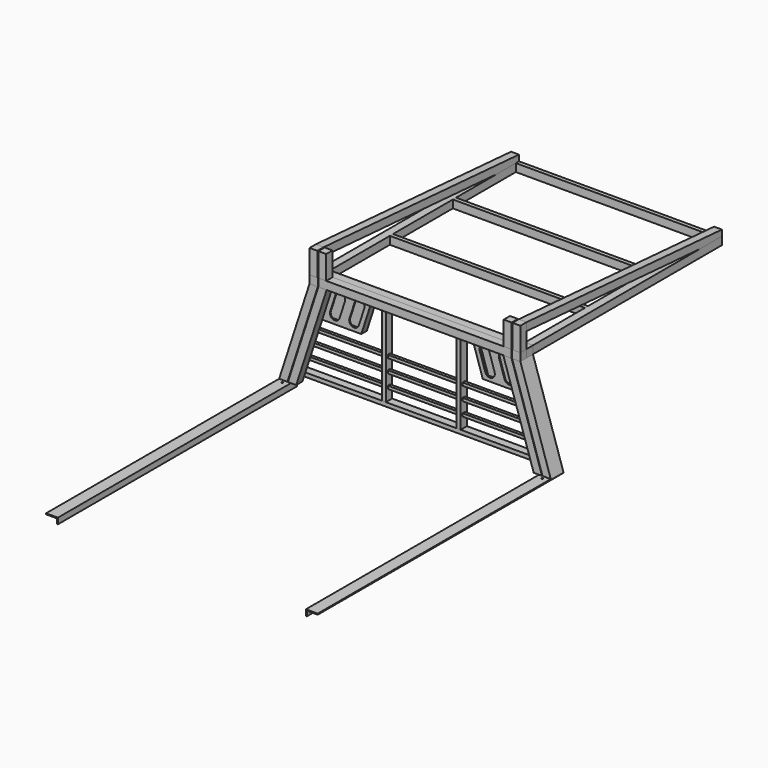
from build123d import *

# Parameters (mm, degrees)
F1_DEPTH       = 76.2
F1_DEPTH_BACK  = 25.4
F2_W           = 1360.1484171438
F2_H           = 50.8
F3_DEPTH       = 25.4
F3_DEPTH_BACK  = 25.4
F5_DEPTH       = 6.35
F6_START       = 31.75
F6_DEPTH       = 6.35
F8_DEPTH       = 31.75
F10_DEPTH      = 31.75
F12_DEPTH      = 6.35
F14_DEPTH      = 9.525
F14_DEPTH_BACK = 9.525
F15_T          = -3.175
F17_DEPTH      = 1981.2
F18_W          = 50.8
F18_H          = 31.75
F19_DEPTH      = 1682.751
F22_R          = 5.0419
F23_DEPTH      = 6.35
F24_W          = 53.4142809913
F24_H          = 50.8
F25_DEPTH      = 50.8
F26_W          = 50.8
F26_H          = 152.4
F27_DEPTH      = 50.8
F28_W          = 1524
F28_H          = 50.8
F29_DEPTH      = 50.8
F31_DEPTH      = 50.8
F33_W          = 25.4
F33_H          = 50.8
F34_DEPTH      = 1258.5484171438
F35_W          = 25.4
F35_H          = 50.8
F36_DEPTH      = 546.7708878474
F38_DEPTH      = 546.7708878474
F40_DEPTH      = 50.8
F41_W          = 1246.6430700373
F41_H          = 50.8
F42_DEPTH      = 50.8
F43_W          = 50.8
F43_H          = 152.4
F44_DEPTH      = 50.8


with BuildPart() as f1:
    # F0 (on Front) → F1 (new body, two sides)
    with BuildSketch(Plane.XZ) as f1_sk:
        Polygon((-680.0742085719, 603.9208878474), (-876.3, 0), (-822.8857190087, 0), (-626.6599275806, 603.9208878474), align=None)
    extrude(amount=F1_DEPTH)
    extrude(f1_sk.sketch, amount=-F1_DEPTH_BACK)

    # F15
    f15_openings = [f1.faces().sort_by_distance(p)[0] for p in [
        (-849.59286, -25.4, 0),
    ]]
    offset(amount=F15_T, openings=f15_openings)


with BuildPart() as f1b:
    # F0 (on Front) → F1, piece 2 (new body, two sides)
    with BuildSketch(Plane.XZ) as f1_2_sk:
        Polygon((680.0742085719, 603.9208878474), (626.6599275806, 603.9208878474), (822.8857190087, 0), (876.3, 0), align=None)
    extrude(amount=F1_DEPTH)
    extrude(f1_2_sk.sketch, amount=-F1_DEPTH_BACK)


with BuildPart() as f3:
    # F2 (on Front) → F3 (new body, two sides)
    with BuildSketch(Plane.XZ) as f3_sk:
        with Locations((0, 629.3208878474)):
            Rectangle(F2_W, F2_H)
    extrude(amount=F3_DEPTH)
    extrude(f3_sk.sketch, amount=-F3_DEPTH_BACK)


with BuildPart() as f3b:
    # F2 (on Front) → F3, piece 2 (new body, two sides)
    with BuildSketch(Plane.XZ) as f3_2_sk:
        Polygon((-804.316558369, 57.15), (-812.5695186533, 31.75), (812.5695186533, 31.75), (804.316558369, 57.15), align=None)
    extrude(amount=F3_DEPTH)
    extrude(f3_2_sk.sketch, amount=-F3_DEPTH_BACK)


with BuildPart() as f5:
    # F4 (on face) → F5 (new body)
    with BuildSketch(Plane(origin=(0, 25.4, 0), x_dir=(-1, 0, 0), z_dir=(0, 1, 0))):
        Polygon((-321.8599275806, 603.9208878474), (-626.6599275806, 603.9208878474), (-696.8100899973, 388.0208878474), (-392.0100899973, 388.0208878474), align=None)
    extrude(amount=-F5_DEPTH)


with BuildPart() as f5b:
    # F4 (on face) → F5, piece 2 (new body)
    with BuildSketch(Plane(origin=(0, 25.4, 0), x_dir=(-1, 0, 0), z_dir=(0, 1, 0))):
        Polygon((626.6599275806, 603.9208878474), (321.8599275806, 603.9208878474), (392.0100899973, 388.0208878474), (696.8100899973, 388.0208878474), align=None)
    extrude(amount=-F5_DEPTH)


with BuildPart() as f6:
    # F5_face (on face) → F6 (new body)
    with BuildSketch(Plane(origin=(-509.3350087889, 19.05, 495.9708878474), x_dir=(-1, 0, 0), z_dir=(0, -1, 0)).offset(F6_START)):
        Polygon((-187.4750812083, -107.95), (117.3249187917, -107.95), (187.4750812083, 107.95), (-117.3249187917, 107.95), align=None)
    extrude(amount=F6_DEPTH)


with BuildPart() as f6b:
    # F5_face (on face) → F6, piece 2 (new body)
    with BuildSketch(Plane(origin=(-509.3350087889, 19.05, 495.9708878474), x_dir=(-1, 0, 0), z_dir=(0, -1, 0)).offset(F6_START)):
        Polygon((-901.3450987862, 107.95), (-1206.1450987862, 107.95), (-1135.9949363696, -107.95), (-831.1949363696, -107.95), align=None)
    extrude(amount=F6_DEPTH)


with BuildPart() as f8:
    # F7 (on face) → F8 (new body, through all)
    with BuildSketch(Plane.XZ.offset(-19.05)):
        Polygon((-392.0100899973, 388.0208878474), (-321.8599275806, 603.9208878474), (-328.5367127045, 603.9208878474), (-398.6868751212, 388.0208878474), align=None)
    extrude(amount=F8_DEPTH)


with BuildPart() as f8b:
    # F7 (on face) → F8, piece 2 (new body, through all)
    with BuildSketch(Plane.XZ.offset(-19.05)):
        Polygon((328.5367127045, 603.9208878474), (321.8599275806, 603.9208878474), (392.0100899973, 388.0208878474), (398.6868751212, 388.0208878474), align=None)
    extrude(amount=F8_DEPTH)


with BuildPart() as f10:
    # F9 (on face) → F10 (new body, through all)
    with BuildSketch(Plane.XZ.offset(-19.05)):
        Polygon((-694.7468499262, 394.3708878474), (-696.8100899973, 388.0208878474), (-398.6868751212, 388.0208878474), (-396.6236350501, 394.3708878474), align=None)
    extrude(amount=F10_DEPTH)


with BuildPart() as f10b:
    # F9 (on face) → F10, piece 2 (new body, through all)
    with BuildSketch(Plane.XZ.offset(-19.05)):
        Polygon((396.6236350501, 394.3708878474), (398.6868751212, 388.0208878474), (696.8100899973, 388.0208878474), (694.7468499262, 394.3708878474), align=None)
    extrude(amount=F10_DEPTH)


with BuildPart() as f12_tool:
    # F11 (on face) → F12 (new body, through all)
    with BuildSketch(Plane.XZ.offset(19.05)):
        with BuildLine():
            Line((-432.9707319528, 560.1350573251), (-468.2913744098, 451.4292975126))
            ThreePointArc((-468.2913744098, 451.4292975126), (-447.9066195889, 411.4219635488), (-407.8992856251, 431.8067183698))
            Line((-407.8992856251, 431.8067183698), (-372.578643168, 540.5124781823))
            ThreePointArc((-372.578643168, 540.5124781823), (-392.963397989, 580.5198121461), (-432.9707319528, 560.1350573251))
        make_face()
        with BuildLine():
            Line((-557.3564509615, 560.1350573251), (-592.6770934185, 451.4292975126))
            ThreePointArc((-592.6770934185, 451.4292975126), (-572.2923385976, 411.4219635488), (-532.2850046338, 431.8067183698))
            Line((-532.2850046338, 431.8067183698), (-496.9643621767, 540.5124781823))
            ThreePointArc((-496.9643621767, 540.5124781823), (-517.3491169977, 580.5198121461), (-557.3564509615, 560.1350573251))
        make_face()
        with BuildLine():
            Line((468.2913744098, 451.4292975126), (432.9707319528, 560.1350573251))
            ThreePointArc((432.9707319528, 560.1350573251), (392.963397989, 580.5198121461), (372.578643168, 540.5124781823))
            Line((372.578643168, 540.5124781823), (407.8992856251, 431.8067183698))
            ThreePointArc((407.8992856251, 431.8067183698), (447.9066195889, 411.4219635488), (468.2913744098, 451.4292975126))
        make_face()
        with BuildLine():
            Line((592.6770934185, 451.4292975126), (557.3564509615, 560.1350573251))
            ThreePointArc((557.3564509615, 560.1350573251), (517.3491169977, 580.5198121461), (496.9643621767, 540.5124781823))
            Line((496.9643621767, 540.5124781823), (532.2850046338, 431.8067183698))
            ThreePointArc((532.2850046338, 431.8067183698), (572.2923385976, 411.4219635488), (592.6770934185, 451.4292975126))
        make_face()
    extrude(amount=-F12_DEPTH)


with BuildPart() as f6_1:
    add(f6.part)

    # F12: cut by f12_tool
    add(f12_tool.part, mode=Mode.SUBTRACT)


with BuildPart() as f6b_1:
    add(f6b.part)

    # F12: cut by f12_tool
    add(f12_tool.part, mode=Mode.SUBTRACT)


with BuildPart() as f14:
    # F13 (on Front) → F14 (new body, two sides)
    with BuildSketch(Plane.XZ) as f14_sk:
        Polygon((-775.8925112228, 144.6302219619), (-782.082231436, 125.5802219619), (782.082231436, 125.5802219619), (775.8925112228, 144.6302219619), align=None)
    extrude(amount=F14_DEPTH)
    extrude(f14_sk.sketch, amount=-F14_DEPTH_BACK)


with BuildPart() as f14b:
    # F13 (on Front) → F14, piece 2 (new body, two sides)
    with BuildSketch(Plane.XZ) as f14_2_sk:
        Polygon((-747.4684640765, 232.1104439237), (-753.6581842898, 213.0604439237), (753.6581842898, 213.0604439237), (747.4684640765, 232.1104439237), align=None)
    extrude(amount=F14_DEPTH)
    extrude(f14_2_sk.sketch, amount=-F14_DEPTH_BACK)


with BuildPart() as f14c:
    # F13 (on Front) → F14, piece 3 (new body, two sides)
    with BuildSketch(Plane.XZ) as f14_3_sk:
        Polygon((-719.0444169303, 319.5906658856), (-725.2341371435, 300.5406658856), (725.2341371435, 300.5406658856), (719.0444169303, 319.5906658856), align=None)
    extrude(amount=F14_DEPTH)
    extrude(f14_3_sk.sketch, amount=-F14_DEPTH_BACK)


with BuildPart() as f17:
    # F16 (on face) → F17 (new body)
    with BuildSketch(Plane(origin=(0, 25.4, 0), x_dir=(-1, 0, 0), z_dir=(0, 1, 0))):
        Polygon((806.45, -6.35), (876.3, -6.35), (876.3, 0), (800.1, 0), (800.1, -38.1), (806.45, -38.1), align=None)
    extrude(amount=-F17_DEPTH)


with BuildPart() as f17b:
    # F16 (on face) → F17, piece 2 (new body)
    with BuildSketch(Plane(origin=(0, 25.4, 0), x_dir=(-1, 0, 0), z_dir=(0, 1, 0))):
        Polygon((-800.1, 0), (-876.3, 0), (-876.3, -6.35), (-806.45, -6.35), (-806.45, -38.1), (-800.1, -38.1), align=None)
    extrude(amount=-F17_DEPTH)


with BuildPart() as f19_tool:
    # F18 (on face) → F19 (new body, through all)
    with BuildSketch(Plane.YZ.offset(806.45)):
        with Locations((0, -22.225)):
            Rectangle(F18_W, F18_H)
    extrude(amount=-F19_DEPTH)


with BuildPart() as f17_1:
    add(f17.part)

    # F19: cut by f19_tool
    add(f19_tool.part, mode=Mode.SUBTRACT)


with BuildPart() as f17b_1:
    add(f17b.part)

    # F19: cut by f19_tool
    add(f19_tool.part, mode=Mode.SUBTRACT)


with BuildPart() as f23_tool:
    # F22 (on face) → F23 (new body, through all)
    with BuildSketch(Plane(origin=(0, 0, -6.35), x_dir=(1, 0, 0), z_dir=(0, 0, -1))):
        with Locations((-838.2, 98.425)):
            Circle(F22_R)
        with Locations((838.2, 98.425)):
            Circle(F22_R)
    extrude(amount=-F23_DEPTH)


with BuildPart() as f17_2:
    add(f17_1.part)

    # F23: cut by f23_tool
    add(f23_tool.part, mode=Mode.SUBTRACT)


with BuildPart() as f17b_2:
    add(f17b_1.part)

    # F23: cut by f23_tool
    add(f23_tool.part, mode=Mode.SUBTRACT)


with BuildPart() as f25:
    # F24 (on face) → F25 (new body)
    with BuildSketch(Plane.XZ.offset(25.4)):
        with Locations((-653.3670680763, 629.3208878474)):
            Rectangle(F24_W, F24_H)
    extrude(amount=F25_DEPTH)


with BuildPart() as f25b:
    # F24 (on face) → F25, piece 2 (new body)
    with BuildSketch(Plane.XZ.offset(25.4)):
        with Locations((653.3670680763, 629.3208878474)):
            Rectangle(F24_W, F24_H)
    extrude(amount=F25_DEPTH)


with BuildPart() as f27:
    # F26 (on face) → F27 (new body)
    with BuildSketch(Plane.XZ.offset(76.2)):
        with Locations((-654.6742085719, 730.9208878474)):
            Rectangle(F26_W, F26_H)
    extrude(amount=-F27_DEPTH)


with BuildPart() as f27b:
    # F26 (on face) → F27, piece 2 (new body)
    with BuildSketch(Plane.XZ.offset(76.2)):
        with Locations((654.6742085719, 730.9208878474)):
            Rectangle(F26_W, F26_H)
    extrude(amount=-F27_DEPTH)


with BuildPart() as f29:
    # F28 (on face) → F29 (new body)
    with BuildSketch(Plane.YZ.offset(680.0742085719)):
        with Locations((787.4, 629.3208878474)):
            Rectangle(F28_W, F28_H)
    extrude(amount=-F29_DEPTH)


with BuildPart() as f31:
    # F30 (on face) → F31 (new body)
    with BuildSketch(Plane.YZ.offset(680.0742085719)):
        Polygon((-25.4, 756.1872576742), (1372.5810953912, 654.7208878474), (1549.4, 654.7208878474), (1549.4, 692.8208878474), (-25.4, 807.1208878474), align=None)
    extrude(amount=-F31_DEPTH)


with BuildPart() as f32_1:
    # F32: instance of F31
    add(f31.part.mirror(Plane.YZ))


with BuildPart() as f32_2:
    # F32: instance of F29
    add(f29.part.mirror(Plane.YZ))


with BuildPart() as f34:
    # F33 (on face) → F34 (new body, through all)
    with BuildSketch(Plane(origin=(629.2742085719, 0, 0), x_dir=(0, -1, 0), z_dir=(-1, 0, 0))):
        with Locations((-520.7, 629.3208878474)):
            Rectangle(F33_W, F33_H)
    extrude(amount=F34_DEPTH)


with BuildPart() as f34b:
    # F33 (on face) → F34, piece 2 (new body, through all)
    with BuildSketch(Plane(origin=(629.2742085719, 0, 0), x_dir=(0, -1, 0), z_dir=(-1, 0, 0))):
        with Locations((-1028.7, 629.3208878474)):
            Rectangle(F33_W, F33_H)
    extrude(amount=F34_DEPTH)


with BuildPart() as f34c:
    # F33 (on face) → F34, piece 3 (new body, through all)
    with BuildSketch(Plane(origin=(629.2742085719, 0, 0), x_dir=(0, -1, 0), z_dir=(-1, 0, 0))):
        with Locations((-1536.7, 629.3208878474)):
            Rectangle(F33_W, F33_H)
    extrude(amount=F34_DEPTH)


with BuildPart() as f36:
    # F35 (on face) → F36 (new body, through all)
    with BuildSketch(Plane.XY.offset(57.15)):
        with Locations((-241.3, 0)):
            Rectangle(F35_W, F35_H)
    extrude(amount=F36_DEPTH)


with BuildPart() as f36b:
    # F35 (on face) → F36, piece 2 (new body, through all)
    with BuildSketch(Plane.XY.offset(57.15)):
        with Locations((241.3, 0)):
            Rectangle(F35_W, F35_H)
    extrude(amount=F36_DEPTH)


with BuildPart() as f14_1:
    add(f14.part)

    # F37: cut F36, F36b
    add(f36.part, mode=Mode.SUBTRACT)
    add(f36b.part, mode=Mode.SUBTRACT)


with BuildPart() as f14b_1:
    add(f14b.part)

    # F37: cut F36, F36b
    add(f36.part, mode=Mode.SUBTRACT)
    add(f36b.part, mode=Mode.SUBTRACT)


with BuildPart() as f14c_1:
    add(f14c.part)

    # F37: cut F36, F36b
    add(f36.part, mode=Mode.SUBTRACT)
    add(f36b.part, mode=Mode.SUBTRACT)


with BuildPart() as f38:
    # F35 (on face) → F38 (new body, through all)
    with BuildSketch(Plane.XY.offset(57.15)):
        with Locations((-241.3, 0)):
            Rectangle(F35_W, F35_H)
    extrude(amount=F38_DEPTH)


with BuildPart() as f38b:
    # F35 (on face) → F38, piece 2 (new body, through all)
    with BuildSketch(Plane.XY.offset(57.15)):
        with Locations((241.3, 0)):
            Rectangle(F35_W, F35_H)
    extrude(amount=F38_DEPTH)


with BuildPart() as f40:
    # F39 (on face) → F40 (new body)
    with BuildSketch(Plane.XZ.offset(76.2)):
        Polygon((-623.3215350186, 603.9208878474), (-819.5473264467, 0), (-766.1330454554, 0), (-569.9072540273, 603.9208878474), align=None)
    extrude(amount=-F40_DEPTH)


with BuildPart() as f40b:
    # F39 (on face) → F40, piece 2 (new body)
    with BuildSketch(Plane.XZ.offset(76.2)):
        Polygon((623.3215350186, 603.9208878474), (569.9072540273, 603.9208878474), (766.1330454554, 0), (819.5473264467, 0), align=None)
    extrude(amount=-F40_DEPTH)


with BuildPart() as f42:
    # F41 (on face) → F42 (new body)
    with BuildSketch(Plane.XZ.offset(76.2)):
        with Locations((0, 629.3208878474)):
            Rectangle(F41_W, F41_H)
    extrude(amount=-F42_DEPTH)


with BuildPart() as f44:
    # F43 (on face) → F44 (new body)
    with BuildSketch(Plane.XZ.offset(76.2)):
        with Locations((597.9215350186, 730.9208878474)):
            Rectangle(F43_W, F43_H)
    extrude(amount=-F44_DEPTH)


with BuildPart() as f44b:
    # F43 (on face) → F44, piece 2 (new body)
    with BuildSketch(Plane.XZ.offset(76.2)):
        with Locations((-597.9215350186, 730.9208878474)):
            Rectangle(F43_W, F43_H)
    extrude(amount=-F44_DEPTH)


solid = Compound([f1.part, f1b.part, f3.part, f3b.part, f5.part, f5b.part, f8.part, f8b.part, f10.part, f10b.part, f6_1.part, f6b_1.part, f17_2.part, f17b_2.part, f25.part, f25b.part, f27.part, f27b.part, f29.part, f31.part, f32_1.part, f32_2.part, f34.part, f34b.part, f34c.part, f14_1.part, f14b_1.part, f14c_1.part, f38.part, f38b.part, f40.part, f40b.part, f42.part, f44.part, f44b.part])
